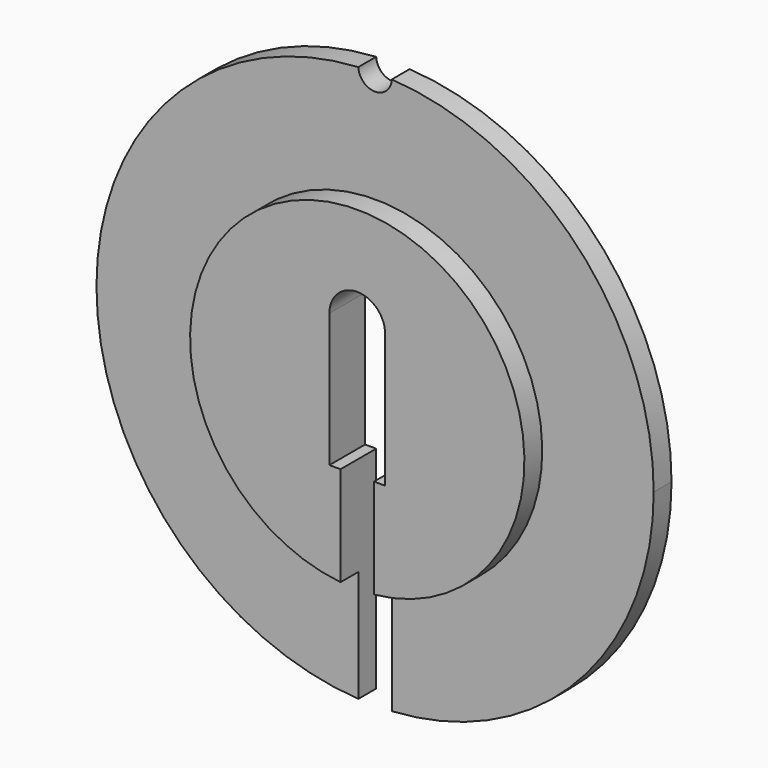
from build123d import *

# Parameters (mm, degrees)
F1_DEPTH = 5.08
F2_R     = 76.2
F2_R_2   = 19.05
F3_DEPTH = 2.54


with BuildPart() as f1:
    # F0 (on Front) → F1 (new body)
    with BuildSketch(Plane.XZ):
        with BuildLine():
            ThreePointArc((1.905, -31.692798), (23.114349, -21.766703), (31.75, 0))
            ThreePointArc((31.75, 0), (23.114054, 21.767016), (1.904143, 31.69285))
            ThreePointArc((1.904143, 31.69285), (0, 29.845), (-1.904143, 31.69285))
            ThreePointArc((-1.904143, 31.69285), (-31.75, 0.000429), (-1.905, -31.692798))
            Line((-1.905, -31.692798), (-1.905, -7.62))
            Line((-1.905, -7.62), (-3.175, -7.62))
            Line((-3.175, -7.62), (-3.175, 7.62))
            ThreePointArc((-3.175, 7.62), (0, 10.795), (3.175, 7.62))
            Line((3.175, 7.62), (3.175, -7.62))
            Line((3.175, -7.62), (1.905, -7.62))
            Line((1.905, -7.62), (1.905, -31.692798))
        make_face()
    extrude(amount=F1_DEPTH)

    # F2 (on face) → F3 (cut)
    with BuildSketch(Plane.XZ.offset(5.08)):
        Circle(F2_R)
        Circle(F2_R_2, mode=Mode.SUBTRACT)
    extrude(amount=-F3_DEPTH, mode=Mode.SUBTRACT)


solid = f1.part
